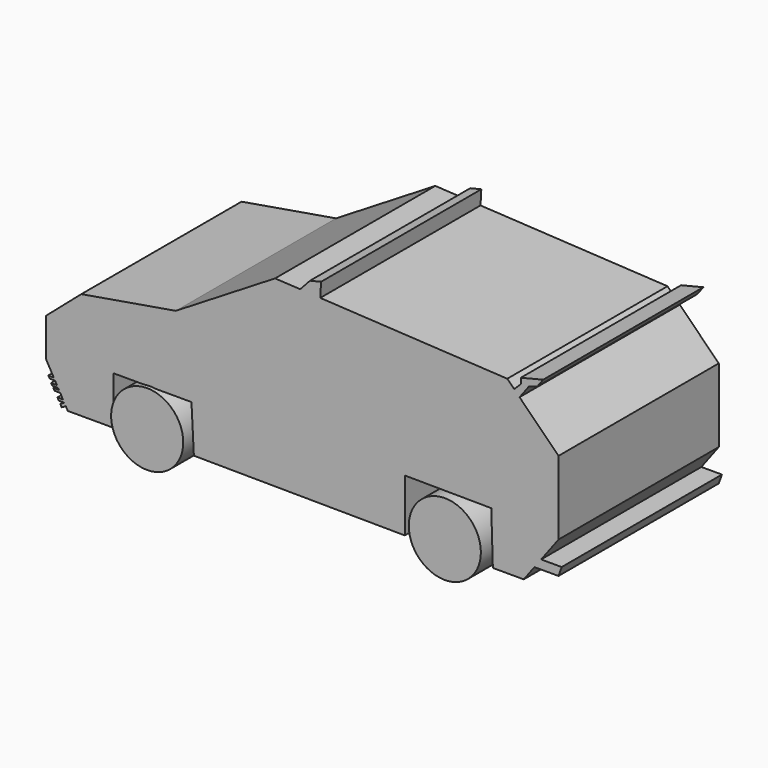
from build123d import *

# Parameters (mm, degrees)
F1_DEPTH       = 25.4
F4_DEPTH       = 2.54
F4_DEPTH_BACK  = 2.54
F7_DEPTH       = 2.032
F7_DEPTH_BACK  = 2.54
F8_R           = 1.1576826641
F9_DEPTH       = 12.7
F9_DEPTH_BACK  = 12.7
F10_R          = 0.9804880259
F11_DEPTH      = 12.7
F11_DEPTH_BACK = 12.7
F13_R          = 4.572
F14_DEPTH      = 4.572
F15_R          = 4.572
F16_DEPTH      = 5.08
F18_R          = 4.4779357242
F19_DEPTH      = 5.08
F20_R          = 4.3509487434
F21_DEPTH      = 4.826
F22_DEPTH      = 25.4
F23_DEPTH      = 25.4


with BuildPart() as f1:
    # F0 (on Front) → F1 (new body)
    with BuildSketch(Plane.XZ):
        Polygon((-42.7369444011, 4.6772318892), (-36.9589328766, 4.6772318892), (-36.9589328766, 10.7693634927), (-27.0514115691, 10.7693634927), (-26.7468057573, 4.8803025857), (0, 4.6772318892), (0, 11.3719804212), (1.0606472588, 11.3639276325), (9.7543726708, 11.297921961), (10.9652050924, 11.2887289162), (11.1689083278, 4.6772318892), (15.0829743681, 4.6772318892), (16.4426990051, 6.4901970327), (17.2888992398, 7.6184633654), (19.4948241115, 10.5596948415), (19.4948241115, 19.900964573), (14.554232661, 24.8415538992), (13.8758348479, 25.5199514207), (12.9965478554, 26.3992380351), (-10.717479028, 27.7076002598), (-13.2646739035, 27.8481353773), (-16.4487566799, 28.0238091946), (-29.0391631424, 20.3071068972), (-41.0203561187, 18.2763971388), (-45.4879179597, 14.4180459902), (-45.4879179597, 9.5443399623), (-44.5200988283, 7.8320442214), (-44.3530531096, 7.5365017348), (-44.1124311804, 7.1107859258), (-43.9645371878, 6.8491272694), (-43.8518225557, 6.6497090328), (-43.6986885549, 6.3787795906), (-43.3529015226, 5.7670024068), (-43.17437928, 5.4511552968), (-42.9887916429, 5.122807871), align=None)
        Polygon((-43.5131009178, 4.8264592117), (-42.9887916429, 5.122807871), (-43.17437928, 5.4511552968), (-43.6986885549, 5.1548066375), align=None)
        Polygon((-43.8739407822, 5.4511552968), (-43.17437928, 5.4511552968), (-43.3529015226, 5.7670024068), (-44.0524630249, 5.7670024068), align=None)
        Polygon((-44.4116123194, 6.3787795906), (-43.6986885549, 6.3787795906), (-43.8518225557, 6.6497090328), (-44.5647463202, 6.6497090328), align=None)
        Polygon((-44.7156839396, 6.8491272694), (-43.9645371878, 6.8491272694), (-44.1124311804, 7.1107859258), (-44.8635779321, 7.1107859258), align=None)
        Polygon((-45.0380556521, 7.5365017348), (-44.3530531096, 7.5365017348), (-44.5200988283, 7.8320442214), (-45.2051013708, 7.8320442214), align=None)
        Polygon((17.2888992398, 7.6184633654), (16.4426990051, 6.4901970327), (19.4948241115, 6.4901970327), (19.8960918933, 7.6184633654), align=None)
        Polygon((13.8758348479, 25.5199514207), (14.554232661, 24.8415538992), (15.7266985625, 26.4048408717), (16.7735743968, 26.7441401112), (17.537901178, 27.763241902), (14.7154445676, 27.0689483732), (14.7154445676, 26.3595615014), align=None)
        Polygon((-12.0249697939, 29.2020086199), (-13.2646739035, 27.8481353773), (-10.717479028, 27.7076002598), (-10.6161860749, 29.5435320586), align=None)
    extrude(amount=F1_DEPTH)

    # F3 (on offset) → F4 (join, two sides)
    with BuildSketch(Plane.XZ.offset(12.7)) as f4_sk:
        Polygon((-28.008485968, 10.7693634927), (-35.8356192608, 10.7693634927), (-34.0407073398, 6.9641508162), (-30.1636971433, 6.9641508162), align=None)
    extrude(amount=F4_DEPTH)
    extrude(f4_sk.sketch, amount=-F4_DEPTH_BACK)

    # F6 (on offset) → F7 (join, two sides)
    with BuildSketch(Plane.XZ.offset(12.7)) as f7_sk:
        Polygon((9.4945231002, 11.2998948258), (0.8765038544, 11.3653257108), (2.9983955901, 7.1409773082), (7.989410311, 7.1365474723), align=None)
    extrude(amount=F7_DEPTH)
    extrude(f7_sk.sketch, amount=-F7_DEPTH_BACK)

    # F8 (on offset) → F9 (join, two sides)
    with BuildSketch(Plane.XZ.offset(12.7)) as f9_sk:
        with Locations((-32.2571918368, 7.1993744932)):
            Circle(F8_R)
    extrude(amount=F9_DEPTH)
    extrude(f9_sk.sketch, amount=-F9_DEPTH_BACK)

    # F10 (on offset) → F11 (join, two sides)
    with BuildSketch(Plane.XZ.offset(12.7)) as f11_sk:
        with Locations((5.3251022473, 7.4197696522)):
            Circle(F10_R)
    extrude(amount=F11_DEPTH)
    extrude(f11_sk.sketch, amount=-F11_DEPTH_BACK)

    # F13 (on offset) → F14 (join)
    with BuildSketch(Plane.XZ.offset(25.908)):
        with Locations((-32.2608351707, 6.2622600235)):
            Circle(F13_R)
    extrude(amount=-F14_DEPTH)

    # F15 (on offset) → F16 (join)
    with BuildSketch(Plane.XZ.offset(25.908)):
        with Locations((5.4841622319, 6.2622600235)):
            Circle(F15_R)
    extrude(amount=-F16_DEPTH)

    # F18 (on offset) → F19 (join)
    with BuildSketch(Plane.XZ.offset(-0.5842)):
        with Locations((5.4573472589, 6.6700675525)):
            Circle(F18_R)
    extrude(amount=F19_DEPTH)

    # F20 (on offset) → F21 (join)
    with BuildSketch(Plane.XZ.offset(-0.5842)):
        with Locations((-32.2135724127, 6.1565306969)):
            Circle(F20_R)
    extrude(amount=F21_DEPTH)

    # F0 (on Front) → F22 (join)
    with BuildSketch(Plane.XZ):
        Polygon((-42.7369444011, 4.6772318892), (-36.9589328766, 4.6772318892), (-36.9589328766, 10.7693634927), (-27.0514115691, 10.7693634927), (-26.7468057573, 4.8803025857), (0, 4.6772318892), (0, 11.3719804212), (1.0606472588, 11.3639276325), (9.7543726708, 11.297921961), (10.9652050924, 11.2887289162), (11.1689083278, 4.6772318892), (15.0829743681, 4.6772318892), (16.4426990051, 6.4901970327), (17.2888992398, 7.6184633654), (19.4948241115, 10.5596948415), (19.4948241115, 19.900964573), (14.554232661, 24.8415538992), (13.8758348479, 25.5199514207), (12.9965478554, 26.3992380351), (-10.717479028, 27.7076002598), (-13.2646739035, 27.8481353773), (-16.4487566799, 28.0238091946), (-29.0391631424, 20.3071068972), (-41.0203561187, 18.2763971388), (-45.4879179597, 14.4180459902), (-45.4879179597, 9.5443399623), (-44.5200988283, 7.8320442214), (-44.3530531096, 7.5365017348), (-44.1124311804, 7.1107859258), (-43.9645371878, 6.8491272694), (-43.8518225557, 6.6497090328), (-43.6986885549, 6.3787795906), (-43.3529015226, 5.7670024068), (-43.17437928, 5.4511552968), (-42.9887916429, 5.122807871), align=None)
        Polygon((-43.5131009178, 4.8264592117), (-42.9887916429, 5.122807871), (-43.17437928, 5.4511552968), (-43.6986885549, 5.1548066375), align=None)
        Polygon((-43.8739407822, 5.4511552968), (-43.17437928, 5.4511552968), (-43.3529015226, 5.7670024068), (-44.0524630249, 5.7670024068), align=None)
        Polygon((-44.4116123194, 6.3787795906), (-43.6986885549, 6.3787795906), (-43.8518225557, 6.6497090328), (-44.5647463202, 6.6497090328), align=None)
        Polygon((-44.7156839396, 6.8491272694), (-43.9645371878, 6.8491272694), (-44.1124311804, 7.1107859258), (-44.8635779321, 7.1107859258), align=None)
        Polygon((-45.0380556521, 7.5365017348), (-44.3530531096, 7.5365017348), (-44.5200988283, 7.8320442214), (-45.2051013708, 7.8320442214), align=None)
        Polygon((17.2888992398, 7.6184633654), (16.4426990051, 6.4901970327), (19.4948241115, 6.4901970327), (19.8960918933, 7.6184633654), align=None)
        Polygon((13.8758348479, 25.5199514207), (14.554232661, 24.8415538992), (15.7266985625, 26.4048408717), (16.7735743968, 26.7441401112), (17.537901178, 27.763241902), (14.7154445676, 27.0689483732), (14.7154445676, 26.3595615014), align=None)
        Polygon((-12.0249697939, 29.2020086199), (-13.2646739035, 27.8481353773), (-10.717479028, 27.7076002598), (-10.6161860749, 29.5435320586), align=None)
    extrude(amount=F22_DEPTH)

    # F0 (on Front) → F23 (join)
    with BuildSketch(Plane.XZ):
        Polygon((-42.7369444011, 4.6772318892), (-36.9589328766, 4.6772318892), (-36.9589328766, 10.7693634927), (-27.0514115691, 10.7693634927), (-26.7468057573, 4.8803025857), (0, 4.6772318892), (0, 11.3719804212), (1.0606472588, 11.3639276325), (9.7543726708, 11.297921961), (10.9652050924, 11.2887289162), (11.1689083278, 4.6772318892), (15.0829743681, 4.6772318892), (16.4426990051, 6.4901970327), (17.2888992398, 7.6184633654), (19.4948241115, 10.5596948415), (19.4948241115, 19.900964573), (14.554232661, 24.8415538992), (13.8758348479, 25.5199514207), (12.9965478554, 26.3992380351), (-10.717479028, 27.7076002598), (-13.2646739035, 27.8481353773), (-16.4487566799, 28.0238091946), (-29.0391631424, 20.3071068972), (-41.0203561187, 18.2763971388), (-45.4879179597, 14.4180459902), (-45.4879179597, 9.5443399623), (-44.5200988283, 7.8320442214), (-44.3530531096, 7.5365017348), (-44.1124311804, 7.1107859258), (-43.9645371878, 6.8491272694), (-43.8518225557, 6.6497090328), (-43.6986885549, 6.3787795906), (-43.3529015226, 5.7670024068), (-43.17437928, 5.4511552968), (-42.9887916429, 5.122807871), align=None)
        Polygon((-43.5131009178, 4.8264592117), (-42.9887916429, 5.122807871), (-43.17437928, 5.4511552968), (-43.6986885549, 5.1548066375), align=None)
        Polygon((-43.8739407822, 5.4511552968), (-43.17437928, 5.4511552968), (-43.3529015226, 5.7670024068), (-44.0524630249, 5.7670024068), align=None)
        Polygon((-44.4116123194, 6.3787795906), (-43.6986885549, 6.3787795906), (-43.8518225557, 6.6497090328), (-44.5647463202, 6.6497090328), align=None)
        Polygon((-44.7156839396, 6.8491272694), (-43.9645371878, 6.8491272694), (-44.1124311804, 7.1107859258), (-44.8635779321, 7.1107859258), align=None)
        Polygon((-45.0380556521, 7.5365017348), (-44.3530531096, 7.5365017348), (-44.5200988283, 7.8320442214), (-45.2051013708, 7.8320442214), align=None)
        Polygon((17.2888992398, 7.6184633654), (16.4426990051, 6.4901970327), (19.4948241115, 6.4901970327), (19.8960918933, 7.6184633654), align=None)
        Polygon((13.8758348479, 25.5199514207), (14.554232661, 24.8415538992), (15.7266985625, 26.4048408717), (16.7735743968, 26.7441401112), (17.537901178, 27.763241902), (14.7154445676, 27.0689483732), (14.7154445676, 26.3595615014), align=None)
        Polygon((-12.0249697939, 29.2020086199), (-13.2646739035, 27.8481353773), (-10.717479028, 27.7076002598), (-10.6161860749, 29.5435320586), align=None)
    extrude(amount=F23_DEPTH)


solid = f1.part
